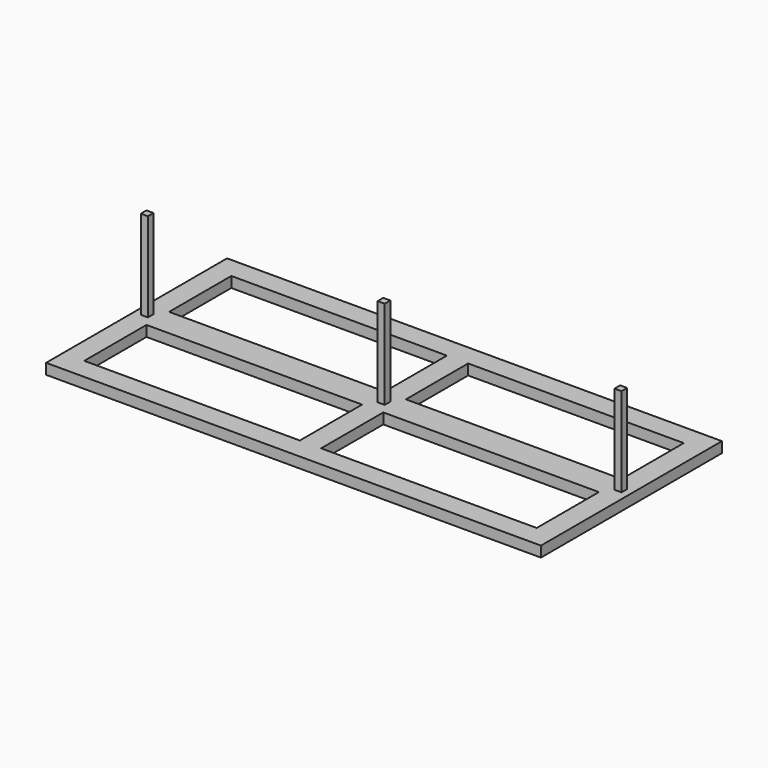
from build123d import *

# Parameters (mm, degrees)
F0_W     = 193.675
F0_H     = 69.85
F1_DEPTH = 9.525
F2_W     = 6.35
F2_H     = 6.35
F3_DEPTH = 2.54
F4_W     = 6.35
F4_H     = 6.35
F5_DEPTH = 77.47


with BuildPart() as f1:
    # F0 (on Top) → F1 (new body)
    with BuildSketch(Plane.XY):
        Polygon((222.25, -101.6), (222.25, 101.6), (-222.25, 101.6), (-222.25, -12.7), (-222.25, -101.6), align=None)
        with Locations((-106.3625, -47.625)):
            Rectangle(F0_W, F0_H, mode=Mode.SUBTRACT)
        with Locations((106.3625, -47.625)):
            Rectangle(F0_W, F0_H, mode=Mode.SUBTRACT)
        with Locations((-106.3625, 47.625)):
            Rectangle(F0_W, F0_H, mode=Mode.SUBTRACT)
        with Locations((106.3625, 47.625)):
            Rectangle(F0_W, F0_H, mode=Mode.SUBTRACT)
    extrude(amount=F1_DEPTH)

    # F2 (on face) → F3 (join)
    with BuildSketch(Plane.XY.offset(9.525)):
        with Locations((-212.725, 0)):
            Rectangle(F2_W, F2_H)
        with Locations((212.725, 0)):
            Rectangle(F2_W, F2_H)
        Rectangle(F2_W, F2_H)
    extrude(amount=F3_DEPTH)

    # F4 (on face) → F5 (join)
    with BuildSketch(Plane.XY.offset(12.065)):
        Rectangle(F4_W, F4_H)
        with Locations((212.725, 0)):
            Rectangle(F4_W, F4_H)
        with Locations((-212.725, 0)):
            Rectangle(F4_W, F4_H)
    extrude(amount=F5_DEPTH)


solid = f1.part
